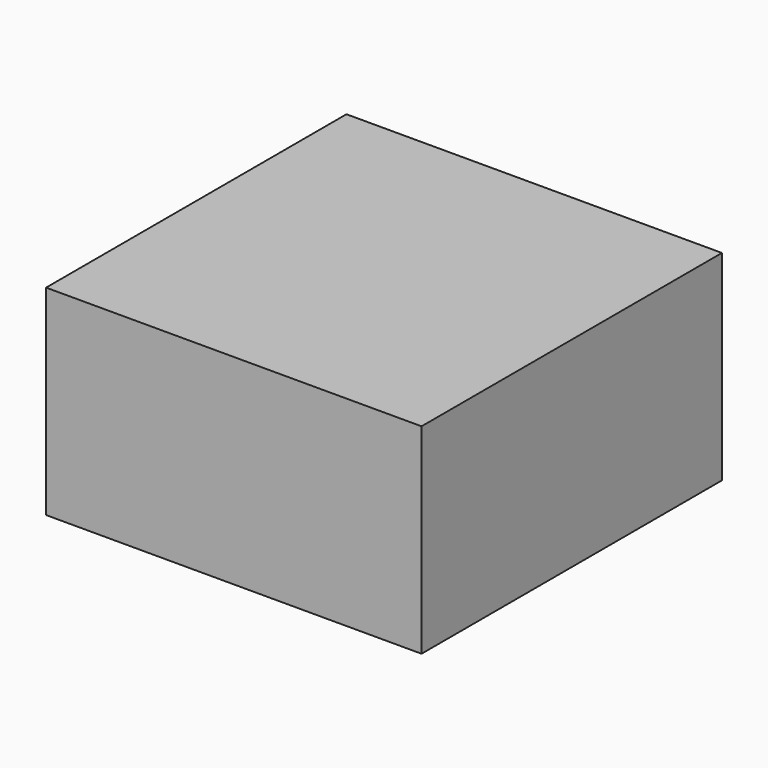
from build123d import *

# Parameters (mm, degrees)
SKETCH_W     = 15
SKETCH_H     = 15
PAD_DEPTH    = 4
SKETCH001_R  = 5.5
POCKET_DEPTH = 2.5


with BuildPart() as part:
    # Sketch → Pad (new body, symmetric)
    with BuildSketch(Plane.XY):
        Rectangle(SKETCH_W, SKETCH_H)
    extrude(amount=PAD_DEPTH, both=True)

    # Sketch001 → Pocket (cut, symmetric)
    with BuildSketch(Plane.XY):
        Circle(SKETCH001_R)
    extrude(amount=POCKET_DEPTH, both=True, mode=Mode.SUBTRACT)


solid = part.part
